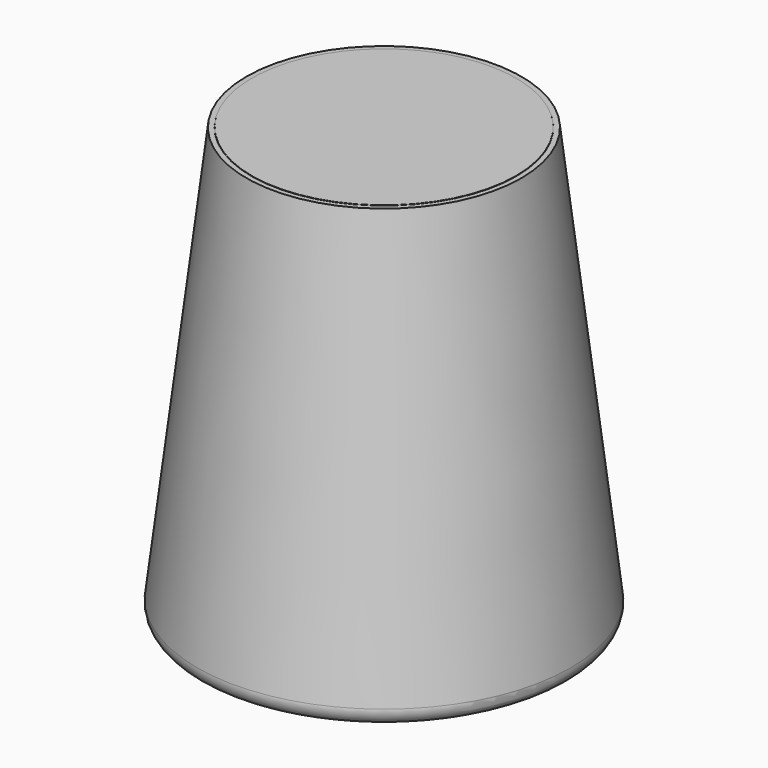
from build123d import *

# Parameters (mm, degrees)
F0_R = 62.5
F2_R = 45.5
F4_R = 5.08
F5_T = -1.7
F8_R = 3


with BuildPart() as f3:
    # F0 (on Top) → F3 section 0
    with BuildSketch(Plane.XY):
        Circle(F0_R)
    # F2 (on offset) → F3 section 1
    with BuildSketch(Plane.XY.offset(143)):
        Circle(F2_R)
    loft()

    # F4
    f4_edges = [f3.edges().sort_by_distance(p)[0] for p in [
        (-62.5, 0, 0),
    ]]
    fillet(f4_edges, radius=F4_R)

    # F5
    f5_openings = [f3.faces().sort_by_distance(p)[0] for p in [
        (0, 0, 143),
    ]]
    offset(amount=F5_T, openings=f5_openings, kind=Kind.INTERSECTION)


with BuildPart() as f7:
    # F6 (on Front) → F7 (revolve)
    with BuildSketch(Plane.XZ):
        Polygon((60.2606162429, 2.0784155931), (43.7630936503, 143.085539341), (0, 143.2411819696), (0, 2.0784155931), align=None)
    revolve(axis=Axis((0, 0, 72.6597987814), (0, 0, 1)))

    # F8
    f8_edges = [f7.edges().sort_by_distance(p)[0] for p in [
        (-60.260616, 0, 2.078416),
    ]]
    fillet(f8_edges, radius=F8_R)


solid = Compound([f3.part, f7.part])
